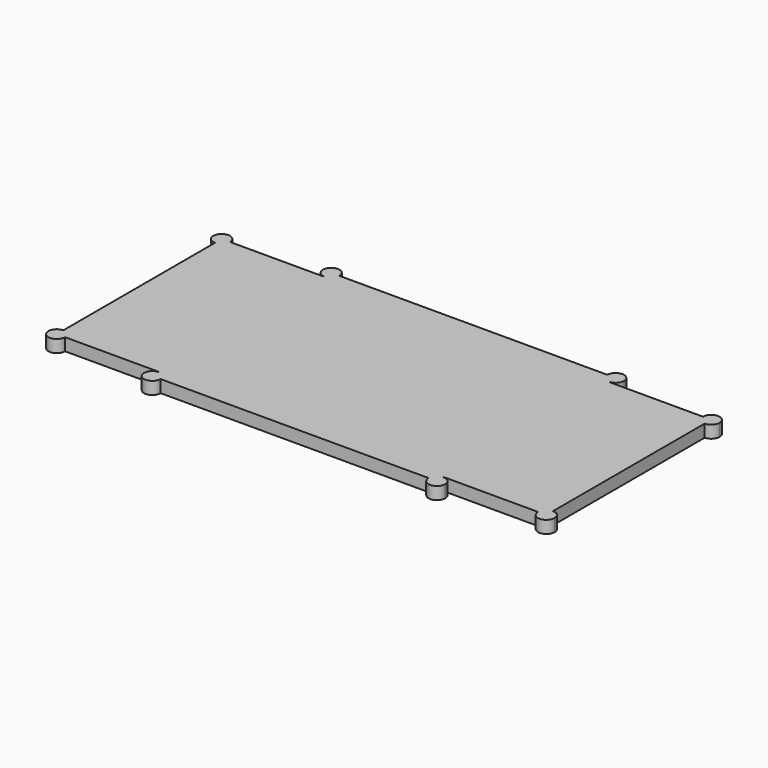
from build123d import *

# Parameters (mm, degrees)
F0_W     = 68.58
F0_H     = 49.7
F1_DEPTH = 3


with BuildPart() as f1:
    # F0 (on Top) → F1 (new body)
    with BuildSketch(Plane.XY):
        with BuildLine():
            ThreePointArc((-59, 22.85), (-57.5857864376, 23.4357864376), (-57, 24.85))
            Line((-57, 24.85), (-59, 24.85))
            Line((-59, 24.85), (-59, 22.85))
        make_face()
        with BuildLine():
            Line((-59, 24.85), (-57, 24.85))
            ThreePointArc((-57, 24.85), (-60.4142135624, 26.2642135624), (-59, 22.85))
            Line((-59, 22.85), (-59, 24.85))
        make_face()
        with BuildLine():
            Line((-34.29, 24.85), (-57, 24.85))
            ThreePointArc((-57, 24.85), (-57.5857864376, 23.4357864376), (-59, 22.85))
            Line((-59, 22.85), (-59, -22.85))
            ThreePointArc((-59, -22.85), (-57.5857864376, -23.4357864376), (-57, -24.85))
            Line((-57, -24.85), (-34.29, -24.85))
            Line((-34.29, -24.85), (-34.29, 24.85))
        make_face()
        with BuildLine():
            Line((-34.29, 24.94), (-34.29, 24.85))
            Line((-34.29, 24.85), (34.29, 24.85))
            Line((34.29, 24.85), (34.29, 24.94))
            ThreePointArc((34.29, 24.94), (32.8757864376, 25.5257864376), (32.29, 26.94))
            Line((32.29, 26.94), (-32.29, 26.94))
            ThreePointArc((-32.29, 26.94), (-32.8757864376, 25.5257864376), (-34.29, 24.94))
        make_face()
        Rectangle(F0_W, F0_H)
        with BuildLine():
            Line((57, 24.85), (34.29, 24.85))
            Line((34.29, 24.85), (34.29, -24.85))
            Line((34.29, -24.85), (57, -24.85))
            ThreePointArc((57, -24.85), (57.5857864376, -23.4357864376), (59, -22.85))
            Line((59, -22.85), (59, 22.85))
            ThreePointArc((59, 22.85), (57.5857864376, 23.4357864376), (57, 24.85))
        make_face()
        with BuildLine():
            ThreePointArc((-32.29, 26.94), (-35.7042135624, 28.3542135624), (-34.29, 24.94))
            Line((-34.29, 24.94), (-34.29, 26.94))
            Line((-34.29, 26.94), (-32.29, 26.94))
        make_face()
        with BuildLine():
            Line((-34.29, 26.94), (-34.29, 24.94))
            ThreePointArc((-34.29, 24.94), (-32.8757864376, 25.5257864376), (-32.29, 26.94))
            Line((-32.29, 26.94), (-34.29, 26.94))
        make_face()
        with BuildLine():
            Line((34.29, -24.85), (-34.29, -24.85))
            Line((-34.29, -24.85), (-34.29, -24.94))
            ThreePointArc((-34.29, -24.94), (-32.8757864376, -25.5257864376), (-32.29, -26.94))
            Line((-32.29, -26.94), (32.29, -26.94))
            ThreePointArc((32.29, -26.94), (32.8757864376, -25.5257864376), (34.29, -24.94))
            Line((34.29, -24.94), (34.29, -24.85))
        make_face()
        with BuildLine():
            ThreePointArc((-57, -24.85), (-57.5857864376, -23.4357864376), (-59, -22.85))
            Line((-59, -22.85), (-59, -24.85))
            Line((-59, -24.85), (-57, -24.85))
        make_face()
        with BuildLine():
            Line((-59, -24.85), (-59, -22.85))
            ThreePointArc((-59, -22.85), (-60.4142135624, -26.2642135624), (-57, -24.85))
            Line((-57, -24.85), (-59, -24.85))
        make_face()
        with BuildLine():
            ThreePointArc((61, 24.85), (59, 26.85), (57, 24.85))
            Line((57, 24.85), (59, 24.85))
            Line((59, 24.85), (59, 22.85))
            ThreePointArc((59, 22.85), (60.4142135624, 23.4357864376), (61, 24.85))
        make_face()
        with BuildLine():
            Line((59, 24.85), (57, 24.85))
            ThreePointArc((57, 24.85), (57.5857864376, 23.4357864376), (59, 22.85))
            Line((59, 22.85), (59, 24.85))
        make_face()
        with BuildLine():
            ThreePointArc((32.29, 26.94), (32.8757864376, 25.5257864376), (34.29, 24.94))
            Line((34.29, 24.94), (34.29, 26.94))
            Line((34.29, 26.94), (32.29, 26.94))
        make_face()
        with BuildLine():
            Line((34.29, 26.94), (34.29, 24.94))
            ThreePointArc((34.29, 24.94), (35.7042135624, 25.5257864376), (36.29, 26.94))
            ThreePointArc((36.29, 26.94), (34.29, 28.94), (32.29, 26.94))
            Line((32.29, 26.94), (34.29, 26.94))
        make_face()
        with BuildLine():
            ThreePointArc((-32.29, -26.94), (-32.8757864376, -25.5257864376), (-34.29, -24.94))
            Line((-34.29, -24.94), (-34.29, -26.94))
            Line((-34.29, -26.94), (-32.29, -26.94))
        make_face()
        with BuildLine():
            Line((-34.29, -26.94), (-34.29, -24.94))
            ThreePointArc((-34.29, -24.94), (-35.7042135624, -28.3542135624), (-32.29, -26.94))
            Line((-32.29, -26.94), (-34.29, -26.94))
        make_face()
        with BuildLine():
            ThreePointArc((59, -22.85), (57.5857864376, -23.4357864376), (57, -24.85))
            Line((57, -24.85), (59, -24.85))
            Line((59, -24.85), (59, -22.85))
        make_face()
        with BuildLine():
            Line((59, -24.85), (57, -24.85))
            ThreePointArc((57, -24.85), (59, -26.85), (61, -24.85))
            ThreePointArc((61, -24.85), (60.4142135624, -23.4357864376), (59, -22.85))
            Line((59, -22.85), (59, -24.85))
        make_face()
        with BuildLine():
            ThreePointArc((36.29, -26.94), (35.7042135624, -25.5257864376), (34.29, -24.94))
            Line((34.29, -24.94), (34.29, -26.94))
            Line((34.29, -26.94), (32.29, -26.94))
            ThreePointArc((32.29, -26.94), (34.29, -28.94), (36.29, -26.94))
        make_face()
        with BuildLine():
            Line((34.29, -26.94), (34.29, -24.94))
            ThreePointArc((34.29, -24.94), (32.8757864376, -25.5257864376), (32.29, -26.94))
            Line((32.29, -26.94), (34.29, -26.94))
        make_face()
    extrude(amount=F1_DEPTH)


solid = f1.part
